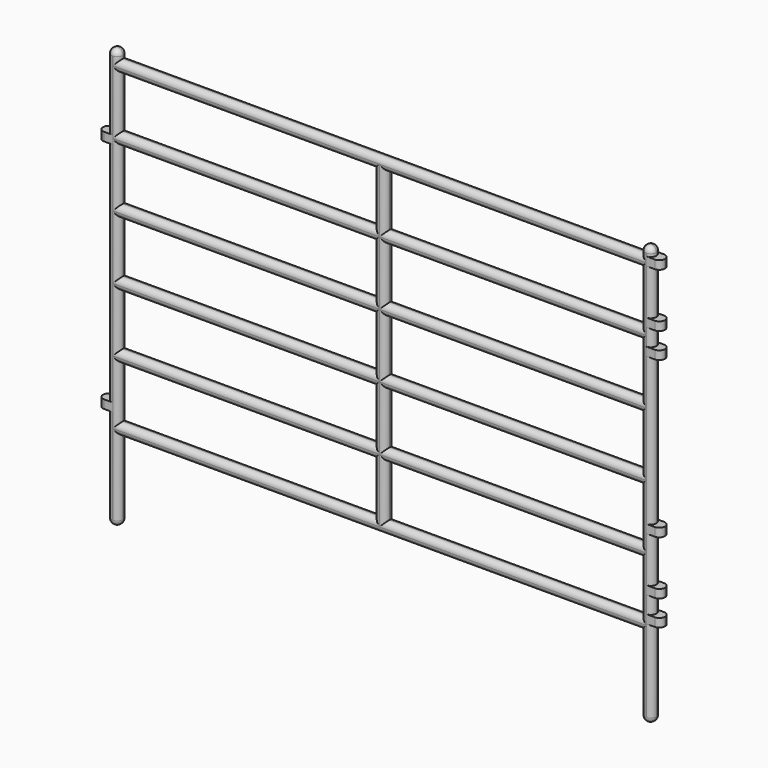
from build123d import *

# Parameters (mm, degrees)
F0_W     = 17.859375
F0_H     = 3.671092
F0_H_2   = 3.671093
F1_DEPTH = 0.396875
F2_R     = 0.39116


with BuildPart() as f1:
    # F0 (on Front) → F1 (new body, symmetric)
    with BuildSketch(Plane.XZ):
        with BuildLine():
            Line((-36.5125, 0), (0, 0))
            Line((0, 0), (0, -5.2586))
            ThreePointArc((0, -5.2586), (0.396875, -5.655475), (0.79375, -5.2586))
            Line((0.79375, -5.2586), (0.79375, 0.496087))
            Line((0.79375, 0.496087), (1.389063, 0.496087))
            Line((1.389063, 0.496087), (1.389063, 1.0914))
            Line((1.389063, 1.0914), (0.79375, 1.0914))
            Line((0.79375, 1.0914), (0.79375, 2.282025))
            Line((0.79375, 2.282025), (1.389063, 2.282025))
            Line((1.389063, 2.282025), (1.389063, 2.877337))
            Line((1.389063, 2.877337), (0.79375, 2.877337))
            Line((0.79375, 2.877337), (0.79375, 6.052337))
            Line((0.79375, 6.052337), (1.389063, 6.052337))
            Line((1.389063, 6.052337), (1.389063, 6.64765))
            Line((1.389063, 6.64765), (0.79375, 6.64765))
            Line((0.79375, 6.64765), (0.79375, 16.9664))
            Line((0.79375, 16.9664), (1.389063, 16.9664))
            Line((1.389063, 16.9664), (1.389063, 17.561712))
            Line((1.389063, 17.561712), (0.79375, 17.561712))
            Line((0.79375, 17.561712), (0.79375, 18.752337))
            Line((0.79375, 18.752337), (1.389063, 18.752337))
            Line((1.389063, 18.752337), (1.389063, 19.34765))
            Line((1.389063, 19.34765), (0.79375, 19.34765))
            Line((0.79375, 19.34765), (0.79375, 22.52265))
            Line((0.79375, 22.52265), (1.389063, 22.52265))
            Line((1.389063, 22.52265), (1.389063, 23.117962))
            Line((1.389063, 23.117962), (0.79375, 23.117962))
            Line((0.79375, 23.117962), (0.79375, 23.3164))
            ThreePointArc((0.79375, 23.3164), (0.396875, 23.713275), (0, 23.3164))
            Line((0, 23.3164), (0, 23.117962))
            Line((0, 23.117962), (-36.5125, 23.117962))
            Line((-36.5125, 23.117962), (-36.5125, 23.3164))
            ThreePointArc((-36.5125, 23.3164), (-36.909375, 23.713275), (-37.30625, 23.3164))
            Line((-37.30625, 23.3164), (-37.30625, 18.45468))
            Line((-37.30625, 18.45468), (-37.901563, 18.45468))
            Line((-37.901563, 18.45468), (-37.901563, 17.859367))
            Line((-37.901563, 17.859367), (-37.30625, 17.859367))
            Line((-37.30625, 17.859367), (-37.30625, 1.984367))
            Line((-37.30625, 1.984367), (-37.901563, 1.984367))
            Line((-37.901563, 1.984367), (-37.901563, 1.389055))
            Line((-37.901563, 1.389055), (-37.30625, 1.389055))
            Line((-37.30625, 1.389055), (-37.30625, -5.2586))
            ThreePointArc((-37.30625, -5.2586), (-36.909375, -5.655475), (-36.5125, -5.2586))
            Line((-36.5125, -5.2586), (-36.5125, 0))
        make_face()
        with Locations((-27.582812, 2.629296)):
            Rectangle(F0_W, F0_H, mode=Mode.SUBTRACT)
        with Locations((-27.582812, 7.094138)):
            Rectangle(F0_W, F0_H_2, mode=Mode.SUBTRACT)
        with Locations((-8.929688, 2.629296)):
            Rectangle(F0_W, F0_H, mode=Mode.SUBTRACT)
        with Locations((-8.929688, 7.094138)):
            Rectangle(F0_W, F0_H_2, mode=Mode.SUBTRACT)
        with Locations((-27.582812, 11.558981)):
            Rectangle(F0_W, F0_H, mode=Mode.SUBTRACT)
        with Locations((-27.582812, 16.023823)):
            Rectangle(F0_W, F0_H_2, mode=Mode.SUBTRACT)
        with Locations((-27.582812, 20.488666)):
            Rectangle(F0_W, F0_H, mode=Mode.SUBTRACT)
        with Locations((-8.929688, 11.558981)):
            Rectangle(F0_W, F0_H, mode=Mode.SUBTRACT)
        with Locations((-8.929688, 16.023823)):
            Rectangle(F0_W, F0_H_2, mode=Mode.SUBTRACT)
        with Locations((-8.929688, 20.488666)):
            Rectangle(F0_W, F0_H, mode=Mode.SUBTRACT)
    extrude(amount=F1_DEPTH, both=True)

    # F2
    f2_edges = [f1.edges().sort_by_distance(p)[0] for p in [
        (-27.582813, -0.396875, 22.324212),
        (-18.25625, -0.396875, 23.117962),
        (-36.909375, -0.396875, 23.713275),
        (-36.5125, -0.396875, 23.217181),
        (-37.30625, -0.396875, 20.88554),
        (-36.5125, -0.396875, 20.488666),
        (-18.653125, -0.396875, 20.488666),
        (-17.859375, -0.396875, 20.488666),
        (-8.929688, -0.396875, 22.324212),
        (-8.929688, -0.396875, 18.65312),
        (-27.582813, -0.396875, 18.65312),
        (-27.582813, -0.396875, 17.85937),
        (-8.929688, -0.396875, 17.85937),
        (-18.653125, -0.396875, 16.023824),
        (-17.859375, -0.396875, 16.023824),
        (-27.582813, -0.396875, 14.188277),
        (-36.5125, -0.396875, 16.023824),
        (-37.30625, -0.396875, 9.921867),
        (-27.582813, -0.396875, 13.394527),
        (-8.929688, -0.396875, 14.188277),
        (-8.929688, -0.396875, 13.394527),
        (-17.859375, -0.396875, 11.558981),
        (-18.653125, -0.396875, 11.558981),
        (-36.5125, -0.396875, 11.558981),
        (-27.582813, -0.396875, 9.723435),
        (-8.929688, -0.396875, 9.723435),
        (-8.929688, -0.396875, 8.929685),
        (-17.859375, -0.396875, 7.094139),
        (-18.653125, -0.396875, 7.094139),
        (-27.582813, -0.396875, 8.929685),
        (-36.5125, -0.396875, 7.094139),
        (-27.582813, -0.396875, 5.258592),
        (-8.929688, -0.396875, 5.258592),
        (-8.929688, -0.396875, 4.464842),
        (-27.582813, -0.396875, 4.464842),
        (-18.653125, -0.396875, 2.629296),
        (-17.859375, -0.396875, 2.629296),
        (-36.5125, -0.396875, 2.629296),
        (-27.582813, -0.396875, 0.79375),
        (-37.30625, -0.396875, -1.934773),
        (-8.929688, -0.396875, 0.79375),
        (-18.25625, -0.396875, 0),
        (-36.5125, -0.396875, -2.6293),
        (-36.909375, -0.396875, -5.655475),
        (0, -0.396875, -2.6293),
        (0.396875, -0.396875, -5.655475),
        (0.79375, -0.396875, -2.381256),
        (0.79375, -0.396875, 1.686712),
        (0, -0.396875, 2.629296),
        (0.79375, -0.396875, 4.464837),
        (0, -0.396875, 7.094139),
        (0.79375, -0.396875, 11.807025),
        (0, -0.396875, 11.558981),
        (0, -0.396875, 16.023824),
        (0.79375, -0.396875, 18.157025),
        (0, -0.396875, 20.488666),
        (0.79375, -0.396875, 20.93515),
        (0.396875, -0.396875, 23.713275),
        (0.79375, -0.396875, 23.217181),
        (0, -0.396875, 23.217181),
        (-18.25625, 0.396875, 23.117962),
        (0.396875, 0.396875, 23.713275),
        (0.79375, 0.396875, 23.217181),
        (0, 0.396875, 23.217181),
        (-8.929688, 0.396875, 22.324212),
        (-8.929688, 0.396875, 18.65312),
        (-8.929688, 0.396875, 17.85937),
        (0, 0.396875, 20.488666),
        (0.79375, 0.396875, 20.93515),
        (1.389063, 0.396875, 22.820306),
        (1.389063, -0.396875, 22.820306),
        (1.389063, 0.396875, 19.049994),
        (1.389063, -0.396875, 19.049994),
        (0.79375, 0.396875, 18.157025),
        (0, 0.396875, 16.023824),
        (0.79375, 0.396875, 11.807025),
        (-8.929688, 0.396875, 14.188277),
        (-17.859375, 0.396875, 16.023824),
        (-17.859375, 0.396875, 11.558981),
        (-17.859375, 0.396875, 7.094139),
        (-8.929688, 0.396875, 8.929685),
        (-8.929688, 0.396875, 9.723435),
        (0, 0.396875, 11.558981),
        (0, 0.396875, 7.094139),
        (1.389063, 0.396875, 6.349994),
        (1.389063, -0.396875, 6.349994),
        (-8.929688, 0.396875, 4.464842),
        (0.79375, 0.396875, 4.464837),
        (0, 0.396875, 2.629296),
        (-8.929688, 0.396875, 0.79375),
        (-18.25625, 0.396875, 0),
        (0.79375, 0.396875, 1.686712),
        (0.79375, 0.396875, -2.381256),
        (0, 0.396875, -2.6293),
        (0.396875, 0.396875, -5.655475),
        (1.389063, -0.396875, 2.579681),
        (1.389063, 0.396875, 2.579681),
        (1.389063, -0.396875, 0.793744),
        (1.389063, 0.396875, 0.793744),
        (1.389063, 0.396875, 17.264056),
        (1.389063, -0.396875, 17.264056),
        (-17.859375, 0.396875, 20.488666),
        (-18.653125, 0.396875, 20.488666),
        (-27.582813, 0.396875, 22.324212),
        (-27.582813, 0.396875, 18.65312),
        (-27.582813, 0.396875, 17.85937),
        (-18.653125, 0.396875, 16.023824),
        (-27.582813, 0.396875, 14.188277),
        (-27.582813, 0.396875, 13.394527),
        (-18.653125, 0.396875, 11.558981),
        (-27.582813, 0.396875, 9.723435),
        (-27.582813, 0.396875, 8.929685),
        (-18.653125, 0.396875, 7.094139),
        (-8.929688, 0.396875, 13.394527),
        (-27.582813, 0.396875, 5.258592),
        (-27.582813, 0.396875, 4.464842),
        (-17.859375, 0.396875, 2.629296),
        (-18.653125, 0.396875, 2.629296),
        (-36.5125, 0.396875, -2.6293),
        (-36.909375, 0.396875, -5.655475),
        (-37.30625, 0.396875, -1.934773),
        (-36.5125, 0.396875, 2.629296),
        (-37.30625, 0.396875, 9.921867),
        (-36.5125, 0.396875, 7.094139),
        (-36.5125, 0.396875, 16.023824),
        (-36.5125, 0.396875, 20.488666),
        (-36.5125, 0.396875, 23.217181),
        (-36.909375, 0.396875, 23.713275),
        (-37.30625, 0.396875, 20.88554),
        (-37.901563, 0.396875, 18.157024),
        (-37.901563, -0.396875, 18.157024),
        (-37.901563, 0.396875, 1.686711),
        (-37.901563, -0.396875, 1.686711),
        (-27.582813, 0.396875, 0.79375),
        (-8.929688, 0.396875, 5.258592),
        (-36.5125, 0.396875, 11.558981),
    ]]
    fillet(f2_edges, radius=F2_R)


solid = f1.part
